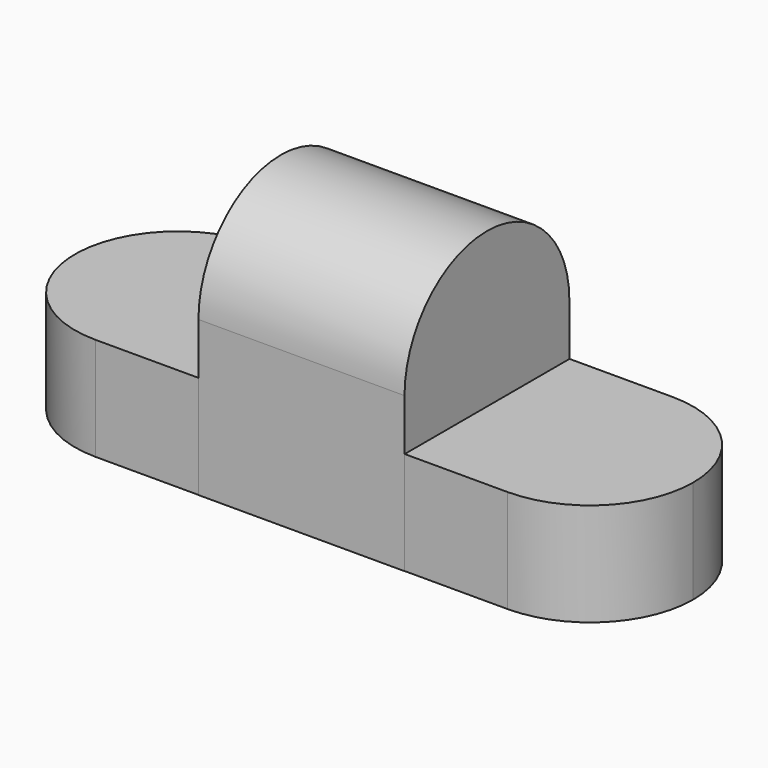
from build123d import *

# Parameters (mm, degrees)
F1_DEPTH = 12.7
F2_W     = 25.4
F2_H     = 25.4
F3_DEPTH = 19.05
F5_DEPTH = 25.4


with BuildPart() as f1:
    # F0 (on Top) → F1 (new body)
    with BuildSketch(Plane.XY):
        with BuildLine():
            Line((-34.4024921656, 12.6939360307), (-35.190372549, 12.6938412482))
            ThreePointArc((-35.190372549, 12.6938412482), (-47.493365494, -0.1977576135), (-34.7949052753, -12.7))
            ThreePointArc((-34.7949052753, -12.7), (-25.8146491543, -8.9802561211), (-22.0949052753, 0))
            ThreePointArc((-22.0949052753, 0), (-25.6769656371, 8.840428539), (-34.4024921656, 12.6939360307))
        make_face()
        with BuildLine():
            ThreePointArc((-34.4024921656, 12.6939360307), (-34.7964330925, 12.6999999081), (-35.190372549, 12.6938412482))
            Line((-35.190372549, 12.6938412482), (-34.4024921656, 12.6939360307))
        make_face()
        with BuildLine():
            ThreePointArc((-22.0949052753, 0), (-25.8146491543, -8.9802561211), (-34.7949052753, -12.7))
            Line((-34.7949052753, -12.7), (16.0050947247, -12.7))
            ThreePointArc((16.0050947247, -12.7), (3.3050947477, -0.0007639086), (16.0035669075, 12.6999999081))
            Line((16.0035669075, 12.6999999081), (-34.4024921656, 12.6939360307))
            ThreePointArc((-34.4024921656, 12.6939360307), (-25.6769656371, 8.840428539), (-22.0949052753, 0))
        make_face()
        with BuildLine():
            ThreePointArc((16.0035669075, 12.6999999081), (3.3050947477, -0.0007639086), (16.0050947247, -12.7))
            ThreePointArc((16.0050947247, -12.7), (24.9853508457, -8.9802561211), (28.7050947247, 0))
            ThreePointArc((28.7050947247, 0), (24.9848106646, 8.9807962698), (16.0035669075, 12.6999999081))
        make_face()
    extrude(amount=F1_DEPTH)

    # F2 (on Top) → F3 (join)
    with BuildSketch(Plane.XY):
        with Locations((-9.3933891925, -0.0239079818)):
            Rectangle(F2_W, F2_H)
    extrude(amount=F3_DEPTH)

    # F4 (on face) → F5 (join)
    with BuildSketch(Plane.YZ.offset(3.3066108075)):
        with BuildLine():
            Line((-12.7239079818, 19.05), (12.6760920182, 19.05))
            ThreePointArc((12.6760920182, 19.05), (-0.0239079818, 31.75), (-12.7239079818, 19.05))
        make_face()
    extrude(amount=-F5_DEPTH)


solid = f1.part
